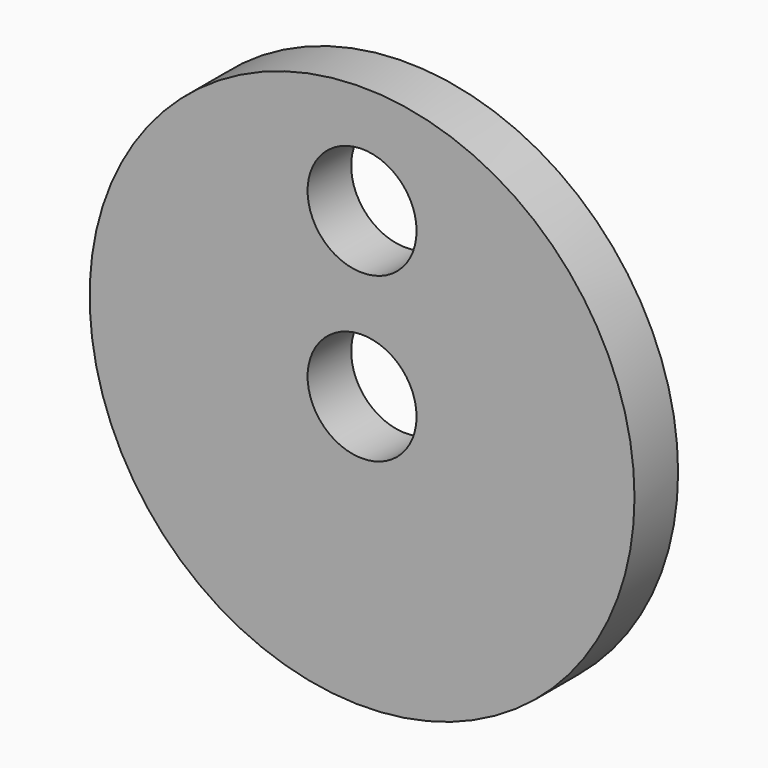
from build123d import *

# Parameters (mm, degrees)
F0_R     = 15.875
F0_R_2   = 3.175
F1_DEPTH = 3.175


with BuildPart() as f1:
    # F0 (on Front) → F1 (new body)
    with BuildSketch(Plane.XZ):
        Circle(F0_R)
        Circle(F0_R_2, mode=Mode.SUBTRACT)
        with Locations((0, 9.525)):
            Circle(F0_R_2, mode=Mode.SUBTRACT)
    extrude(amount=F1_DEPTH)


solid = f1.part
